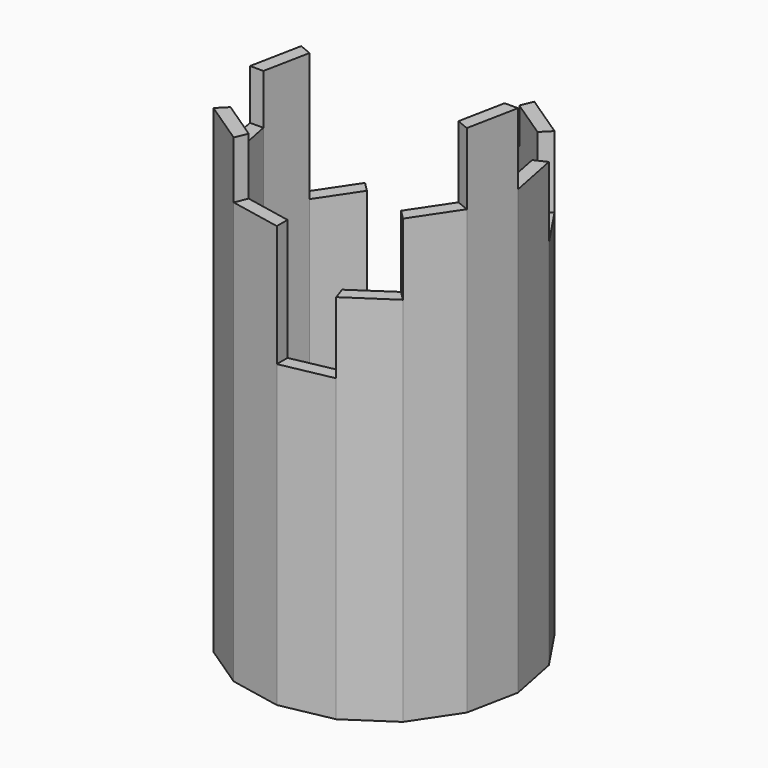
from build123d import *

# Parameters (mm, degrees)
F1_DEPTH  = 152.4
F3_DEPTH  = 25.4
F5_DEPTH  = 50.8
F7_DEPTH  = 12.7
F9_DEPTH  = 63.5
F11_DEPTH = 38.1
F13_DEPTH = 10.16
F15_DEPTH = 5.08
F17_DEPTH = 38.1
F18_DEPTH = 25.4
F20_DEPTH = 7.62
F22_DEPTH = 50.8
F24_DEPTH = 25.4
F26_DEPTH = 25.4
F27_DEPTH = 12.7
F28_DEPTH = 7.62


with BuildPart() as f1:
    # F0 (on Top) → F1 (new body)
    with BuildSketch(Plane.XY):
        Polygon((-0.1432745452, 42.8622605407), (0, 42.8340103128), (0, 47.625), (-18.2252984664, 43.9997627359), (-16.4027686197, 39.5997864623), align=None)
        Polygon((16.3795251941, -39.5436718688), (0, -42.8625), (0, -47.625), (18.2252984664, -43.9997627359), align=None)
        Polygon((-39.5997864623, -16.4027686197), (-42.8625, 0), (-47.625, 0), (-43.9997627359, -18.2252984664), align=None)
        Polygon((39.6860263374, 16.1929990982), (42.8625, 0), (47.625, 0), (43.9997627359, 18.2252984664), (39.5581280192, 16.3855131276), align=None)
        Polygon((39.5997864623, -16.4027686197), (30.3083644086, -30.3083644086), (33.675960454, -33.675960454), (43.9997627359, -18.2252984664), align=None)
        Polygon((-39.5997864623, 16.4027686197), (-30.3083644086, 30.3083644086), (-33.675960454, 33.675960454), (-43.9997627359, 18.2252984664), align=None)
        Polygon((-16.4027686197, -39.5997864623), (-30.3083644086, -30.3083644086), (-33.675960454, -33.675960454), (-18.2252984664, -43.9997627359), align=None)
        Polygon((16.4027686197, 39.5997864623), (30.3083644086, 30.3083644086), (33.675960454, 33.675960454), (18.2252984664, 43.9997627359), align=None)
        Polygon((0, -47.625), (0, -42.8625), (-16.4027686197, -39.5997864623), (-18.2252984664, -43.9997627359), align=None)
        Polygon((0, 47.625), (0, 42.8340103128), (16.4027686197, 39.5997864623), (18.2252984664, 43.9997627359), align=None)
        Polygon((-33.675960454, -33.675960454), (-30.3083644086, -30.3083644086), (-39.5997864623, -16.4027686197), (-43.9997627359, -18.2252984664), align=None)
        Polygon((33.675960454, 33.675960454), (30.3083644086, 30.3083644086), (39.5581280192, 16.3855131276), (43.9997627359, 18.2252984664), align=None)
        Polygon((33.675960454, -33.675960454), (30.3083644086, -30.3083644086), (16.684655354, -39.481846233), (16.3795251941, -39.5436718688), (18.2252984664, -43.9997627359), align=None)
        Polygon((-33.675960454, 33.675960454), (-30.3083644086, 30.3083644086), (-16.4027686197, 39.5997864623), (-18.2252984664, 43.9997627359), align=None)
        Polygon((-47.625, 0), (-42.8625, 0), (-39.5997864623, 16.4027686197), (-43.9997627359, 18.2252984664), align=None)
        Polygon((47.625, 0), (42.8625, 0), (39.5997864623, -16.4027686197), (43.9997627359, -18.2252984664), align=None)
    extrude(amount=F1_DEPTH)

    # F2 (on face) → F3 (cut)
    with BuildSketch(Plane.XY.offset(152.4)):
        Polygon((39.6860263374, 16.1929990982), (43.9997627359, 18.2252984664), (33.675960454, 33.675960454), (30.3083644086, 30.3083644086), align=None)
    extrude(amount=-F3_DEPTH, mode=Mode.SUBTRACT)

    # F4 (on face) → F5 (cut)
    with BuildSketch(Plane.XY.offset(152.4)):
        Polygon((-0.1432745452, 42.8622605407), (0, 47.625), (-18.2252984664, 43.9997627359), (-16.4027686197, 39.5997864623), align=None)
    extrude(amount=-F5_DEPTH, mode=Mode.SUBTRACT)

    # F6 (on face) → F7 (cut)
    with BuildSketch(Plane.XY.offset(152.4)):
        Polygon((16.4027686197, 39.5997864623), (18.2252984664, 43.9997627359), (0, 47.625), (-0.1432745452, 42.8622605407), align=None)
    extrude(amount=-F7_DEPTH, mode=Mode.SUBTRACT)

    # F8 (on face) → F9 (cut)
    with BuildSketch(Plane.XY.offset(152.4)):
        Polygon((-18.2252984664, 43.9997627359), (-33.675960454, 33.675960454), (-30.3083644086, 30.3083644086), (-16.4027686197, 39.5997864623), align=None)
    extrude(amount=-F9_DEPTH, mode=Mode.SUBTRACT)

    # F10 (on face) → F11 (cut)
    with BuildSketch(Plane.XY.offset(152.4)):
        Polygon((-33.675960454, 33.675960454), (-43.9997627359, 18.2252984664), (-39.5997864623, 16.4027686197), (-30.3083644086, 30.3083644086), align=None)
    extrude(amount=-F11_DEPTH, mode=Mode.SUBTRACT)

    # F12 (on face) → F13 (cut)
    with BuildSketch(Plane.XY.offset(152.4)):
        Polygon((-42.8625, 0), (-47.625, 0), (-43.9997627359, -18.2252984664), (-39.5997864623, -16.4027686197), align=None)
    extrude(amount=-F13_DEPTH, mode=Mode.SUBTRACT)

    # F14 (on face) → F15 (join)
    with BuildSketch(Plane(origin=(0, 0, 0), x_dir=(1, 0, 0), z_dir=(0, 0, -1))):
        Polygon((-18.2252984664, -43.9997627359), (0, -47.625), (18.2252984664, -43.9997627359), (33.675960454, -33.675960454), (43.9997627359, -18.2252984664), (47.625, 0), (43.9997627359, 18.2252984664), (33.675960454, 33.675960454), (18.2252984664, 43.9997627359), (0, 47.625), (-18.2252984664, 43.9997627359), (-33.675960454, 33.675960454), (-43.9997627359, 18.2252984664), (-47.625, 0), (-43.9997627359, -18.2252984664), (-33.675960454, -33.675960454), align=None)
        Polygon((30.3083644086, -30.3083644086), (16.4027686197, -39.5997864623), (-0.1432745452, -42.8622605407), (-16.4027686197, -39.5997864623), (-30.3083644086, -30.3083644086), (-39.5997864623, -16.4027686197), (-42.8625, 0), (-39.5997864623, 16.4027686197), (-30.3083644086, 30.3083644086), (-16.4027686197, 39.5997864623), (0, 42.8625), (16.684655354, 39.481846233), (30.3083644086, 30.3083644086), (39.5997864623, 16.4027686197), (42.8625, 0), (39.6860263374, -16.1929990982), align=None, mode=Mode.SUBTRACT)
        Polygon((-0.1432745452, -42.8622605407), (16.4027686197, -39.5997864623), (30.3083644086, -30.3083644086), (39.6860263374, -16.1929990982), (42.8625, 0), (39.5997864623, 16.4027686197), (30.3083644086, 30.3083644086), (16.684655354, 39.481846233), (0, 42.8625), (-16.4027686197, 39.5997864623), (-30.3083644086, 30.3083644086), (-39.5997864623, 16.4027686197), (-42.8625, 0), (-39.5997864623, -16.4027686197), (-30.3083644086, -30.3083644086), (-16.4027686197, -39.5997864623), align=None)
    extrude(amount=F15_DEPTH)

    # F16 (on face) → F17 (cut)
    with BuildSketch(Plane.XY.offset(152.4)):
        Polygon((-33.675960454, -33.675960454), (-30.3083644086, -30.3083644086), (-39.5997864623, -16.4027686197), (-43.9997627359, -18.2252984664), align=None)
    extrude(amount=-F17_DEPTH, mode=Mode.SUBTRACT)

    # F18 (cut): a face of the model
    f18_faces = [f1.faces().sort_by_distance(p)[0] for p in [
        (-24.6758616972, 36.9300368148, 88.9),
    ]]
    extrude(f18_faces, amount=-F18_DEPTH, mode=Mode.SUBTRACT)

    # F19 (on face) → F20 (cut)
    with BuildSketch(Plane.XY.offset(152.4)):
        Polygon((-16.4027686197, -39.5997864623), (-18.2252984664, -43.9997627359), (0, -47.625), (0, -42.8625), align=None)
    extrude(amount=-F20_DEPTH, mode=Mode.SUBTRACT)

    # F21 (on face) → F22 (cut)
    with BuildSketch(Plane.XY.offset(152.4)):
        Polygon((0, -47.625), (18.2252984664, -43.9997627359), (16.684655354, -39.481846233), (0, -42.8625), align=None)
    extrude(amount=-F22_DEPTH, mode=Mode.SUBTRACT)

    # F23 (on face) → F24 (cut)
    with BuildSketch(Plane.XY.offset(152.4)):
        Polygon((18.2252984664, -43.9997627359), (33.675960454, -33.675960454), (30.3083644086, -30.3083644086), (16.684655354, -39.481846233), align=None)
    extrude(amount=-F24_DEPTH, mode=Mode.SUBTRACT)

    # F25 (on face) → F26 (join)
    with BuildSketch(Plane.XY.offset(152.4)):
        Polygon((43.9997627359, -18.2252984664), (47.625, 0), (42.8625, 0), (39.5997864623, -16.4027686197), align=None)
    extrude(amount=F26_DEPTH)

    # F27 (add): a face of the model
    f27_faces = [f1.faces().sort_by_distance(p)[0] for p in [
        (-24.6758616972, -36.9300368148, 152.4),
    ]]
    extrude(f27_faces, amount=F27_DEPTH)

    # F28 (add): a face of the model
    f28_faces = [f1.faces().sort_by_distance(p)[0] for p in [
        (-43.561948599, 8.6650103235, 152.4),
    ]]
    extrude(f28_faces, amount=F28_DEPTH)


solid = f1.part
